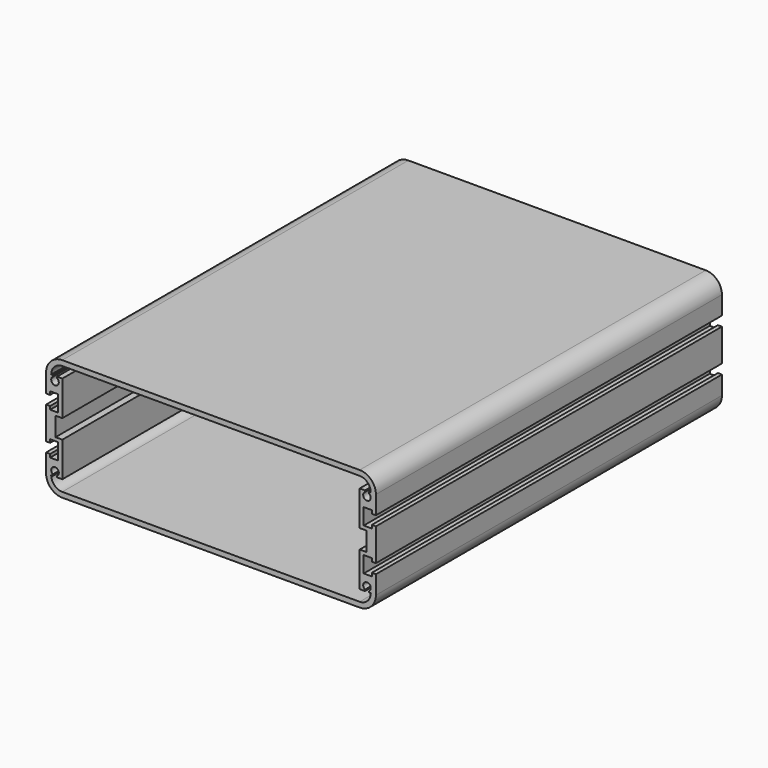
from build123d import *

# Parameters (mm, degrees)
F1_DEPTH = 160


with BuildPart() as f1:
    # F0 (on Front) → F1 (new body)
    with BuildSketch(Plane.XZ):
        with BuildLine():
            ThreePointArc((0, 6), (1.757359, 1.757359), (6, 0))
            Line((6, 0), (61, 0))
            Line((61, 0), (116, 0))
            ThreePointArc((116, 0), (120.242641, 1.757359), (122, 6))
            Line((122, 6), (122, 12.8))
            Line((122, 12.8), (120.5, 12.8))
            Line((120.5, 12.8), (120.5, 11.6))
            Line((120.5, 11.6), (117.5, 11.6))
            Line((117.5, 11.6), (117.5, 17.6))
            Line((117.5, 17.6), (120.5, 17.6))
            Line((120.5, 17.6), (120.5, 16.4))
            Line((120.5, 16.4), (122, 16.4))
            Line((122, 16.4), (122, 22.4))
            Line((122, 22.4), (122, 28.4))
            Line((122, 28.4), (120.5, 28.4))
            Line((120.5, 28.4), (120.5, 27.2))
            Line((120.5, 27.2), (117.5, 27.2))
            Line((117.5, 27.2), (117.5, 33.2))
            Line((117.5, 33.2), (120.5, 33.2))
            Line((120.5, 33.2), (120.5, 32))
            Line((120.5, 32), (122, 32))
            Line((122, 32), (122, 38.8))
            ThreePointArc((122, 38.8), (120.242641, 43.042641), (116, 44.8))
            Line((116, 44.8), (61, 44.8))
            Line((61, 44.8), (6, 44.8))
            ThreePointArc((6, 44.8), (1.757359, 43.042641), (0, 38.8))
            Line((0, 38.8), (0, 32))
            Line((0, 32), (1.5, 32))
            Line((1.5, 32), (1.5, 33.2))
            Line((1.5, 33.2), (4.5, 33.2))
            Line((4.5, 33.2), (4.5, 27.2))
            Line((4.5, 27.2), (1.5, 27.2))
            Line((1.5, 27.2), (1.5, 28.4))
            Line((1.5, 28.4), (0, 28.4))
            Line((0, 28.4), (0, 22.4))
            Line((0, 22.4), (0, 16.4))
            Line((0, 16.4), (1.5, 16.4))
            Line((1.5, 16.4), (1.5, 17.6))
            Line((1.5, 17.6), (4.5, 17.6))
            Line((4.5, 17.6), (4.5, 11.6))
            Line((4.5, 11.6), (1.5, 11.6))
            Line((1.5, 11.6), (1.5, 12.8))
            Line((1.5, 12.8), (0, 12.8))
            Line((0, 12.8), (0, 6))
        make_face()
        with BuildLine():
            ThreePointArc((1.9, 38.8), (3.100862, 41.699138), (6, 42.9))
            Line((6, 42.9), (61, 42.9))
            Line((61, 42.9), (116, 42.9))
            ThreePointArc((116, 42.9), (118.899138, 41.699138), (120.1, 38.8))
            Line((120.1, 38.8), (119.45, 38.8))
            Line((119.45, 38.8), (119.45, 38.282159))
            ThreePointArc((119.45, 38.282159), (118.7, 35.7), (117.95, 38.282159))
            Line((117.95, 38.282159), (117.95, 38.8))
            Line((117.95, 38.8), (116, 38.8))
            Line((116, 38.8), (116, 25.9))
            Line((116, 25.9), (118.5, 25.9))
            Line((118.5, 25.9), (118.5, 22.4))
            Line((118.5, 22.4), (118.5, 18.9))
            Line((118.5, 18.9), (116, 18.9))
            Line((116, 18.9), (116, 6))
            Line((116, 6), (117.95, 6))
            Line((117.95, 6), (117.95, 6.517841))
            ThreePointArc((117.95, 6.517841), (118.7, 9.1), (119.45, 6.517841))
            Line((119.45, 6.517841), (119.45, 6))
            Line((119.45, 6), (120.1, 6))
            ThreePointArc((120.1, 6), (118.899138, 3.100862), (116, 1.9))
            Line((116, 1.9), (61, 1.9))
            Line((61, 1.9), (6, 1.9))
            ThreePointArc((6, 1.9), (3.100862, 3.100862), (1.9, 6))
            Line((1.9, 6), (2.55, 6))
            Line((2.55, 6), (2.55, 6.517841))
            ThreePointArc((2.55, 6.517841), (3.3, 9.1), (4.05, 6.517841))
            Line((4.05, 6.517841), (4.05, 6))
            Line((4.05, 6), (6, 6))
            Line((6, 6), (6, 18.9))
            Line((6, 18.9), (3.5, 18.9))
            Line((3.5, 18.9), (3.5, 22.4))
            Line((3.5, 22.4), (3.5, 25.9))
            Line((3.5, 25.9), (6, 25.9))
            Line((6, 25.9), (6, 38.8))
            Line((6, 38.8), (4.05, 38.8))
            Line((4.05, 38.8), (4.05, 38.282159))
            ThreePointArc((4.05, 38.282159), (3.3, 35.7), (2.55, 38.282159))
            Line((2.55, 38.282159), (2.55, 38.8))
            Line((2.55, 38.8), (1.9, 38.8))
        make_face(mode=Mode.SUBTRACT)
    extrude(amount=F1_DEPTH)


solid = f1.part
